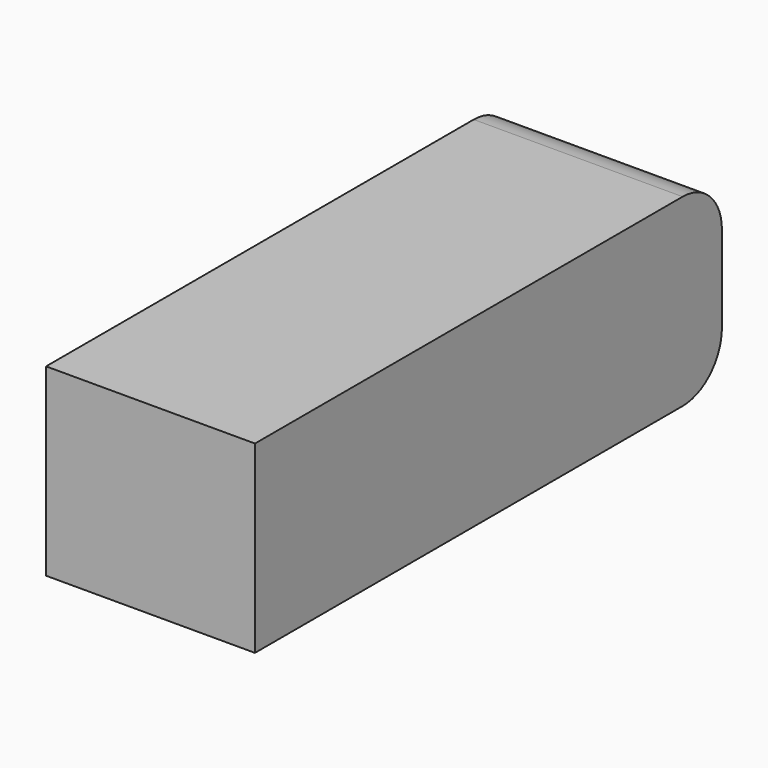
from build123d import *

# Parameters (mm, degrees)
F0_W     = 95
F0_H     = 30
F1_DEPTH = 34
F2_R     = 8


with BuildPart() as f1:
    # F0 (on Right) → F1 (new body)
    with BuildSketch(Plane.YZ):
        with Locations((12.440108, 1.544117)):
            Rectangle(F0_W, F0_H)
    extrude(amount=F1_DEPTH)

    # F2
    f2_edges = [f1.edges().sort_by_distance(p)[0] for p in [
        (17, 59.940108, 16.544117),
        (17, 59.940108, -13.455883),
    ]]
    fillet(f2_edges, radius=F2_R)


solid = f1.part
